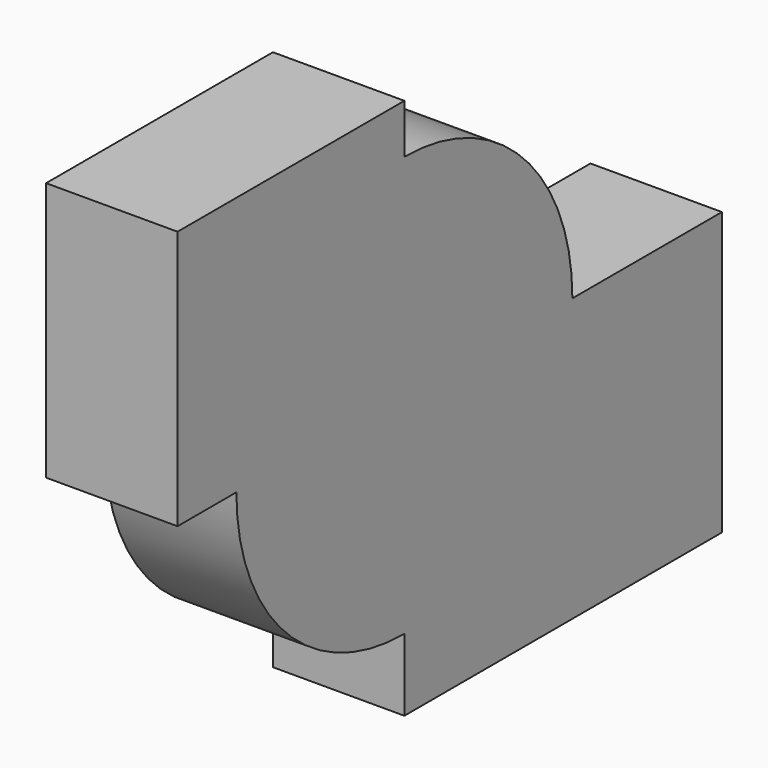
from build123d import *

# Parameters (mm, degrees)
F1_DEPTH = 25.4


with BuildPart() as f1:
    # F0 (on Right) → F1 (new body)
    with BuildSketch(Plane.YZ):
        with BuildLine():
            Line((0, 0), (40.5764031263, 0))
            ThreePointArc((40.5764031263, 0), (28.6918498068, 28.6918498068), (0, 40.5764031263))
            Line((0, 40.5764031263), (0, 0))
        make_face()
        with BuildLine():
            Line((76.691634953, 0), (40.5764031263, 0))
            ThreePointArc((40.5764031263, 0), (28.6918498068, -28.6918498068), (0, -40.5764031263))
            Line((0, -40.5764031263), (0, -54.5102506876))
            Line((0, -54.5102506876), (76.691634953, -54.5102506876))
            Line((76.691634953, -54.5102506876), (76.691634953, 0))
        make_face()
        with BuildLine():
            ThreePointArc((0, -40.5764031263), (28.6918498068, -28.6918498068), (40.5764031263, 0))
            Line((40.5764031263, 0), (0, 0))
            Line((0, 0), (0, -40.5764031263))
        make_face()
        with BuildLine():
            Line((0, 0), (0, 40.5764031263))
            ThreePointArc((0, 40.5764031263), (-28.6918498068, 28.6918498068), (-40.5764031263, 0))
            Line((-40.5764031263, 0), (0, 0))
        make_face()
        with BuildLine():
            ThreePointArc((-40.5764031263, 0), (-28.6918498068, 28.6918498068), (0, 40.5764031263))
            Line((0, 40.5764031263), (0, 50.0971861184))
            Line((0, 50.0971861184), (-54.7840930521, 50.0971861184))
            Line((-54.7840930521, 50.0971861184), (-54.7840930521, 0))
            Line((-54.7840930521, 0), (-40.5764031263, 0))
        make_face()
        with BuildLine():
            ThreePointArc((-40.5764031263, 0), (-28.6918498068, -28.6918498068), (0, -40.5764031263))
            Line((0, -40.5764031263), (0, 0))
            Line((0, 0), (-40.5764031263, 0))
        make_face()
    extrude(amount=F1_DEPTH)


solid = f1.part
